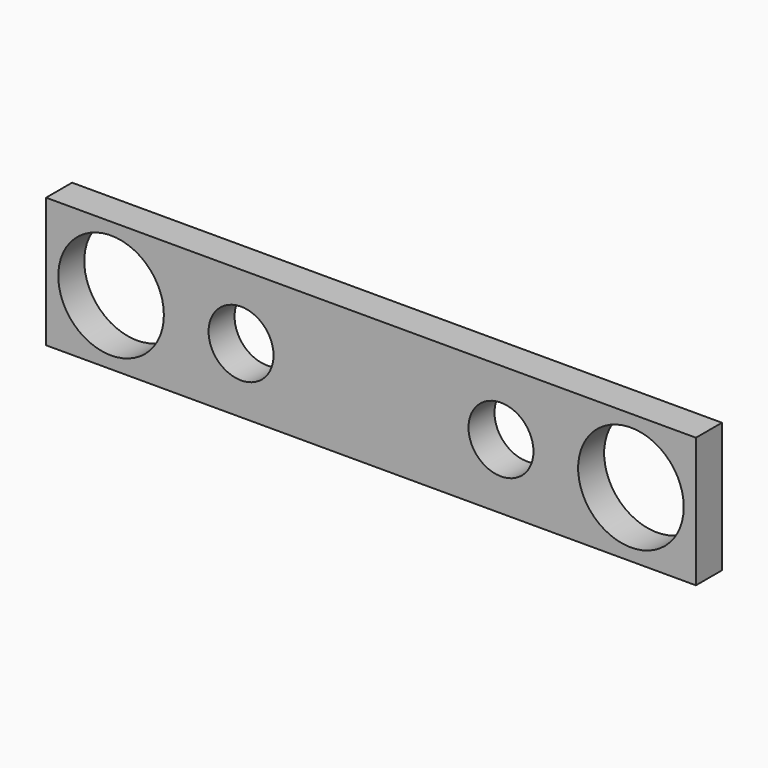
from build123d import *

# Parameters (mm, degrees)
F0_W     = 254
F0_H     = 50.8
F0_R     = 20.6375
F0_R_2   = 12.7
F1_DEPTH = 12.7


with BuildPart() as f1:
    # F0 (on Front) → F1 (new body)
    with BuildSketch(Plane.XZ):
        Rectangle(F0_W, F0_H)
        with Locations((-101.6, 0)):
            Circle(F0_R, mode=Mode.SUBTRACT)
        with Locations((-50.8, 0)):
            Circle(F0_R_2, mode=Mode.SUBTRACT)
        with Locations((50.8, 0)):
            Circle(F0_R_2, mode=Mode.SUBTRACT)
        with Locations((101.6, 0)):
            Circle(F0_R, mode=Mode.SUBTRACT)
    extrude(amount=F1_DEPTH)


solid = f1.part
